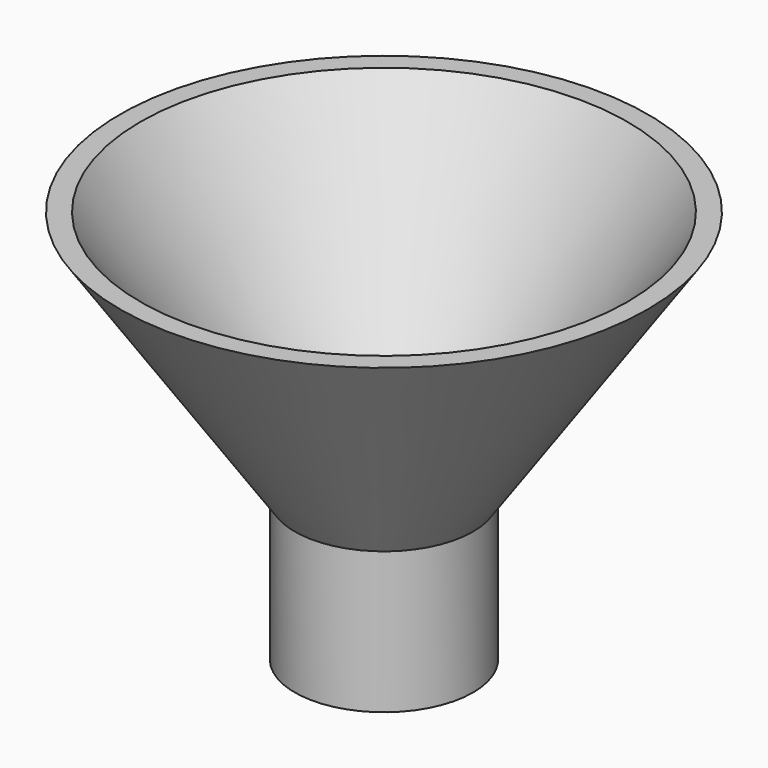
from build123d import *

# Parameters (mm, degrees)
F2_R     = 10.531
F3_DEPTH = 25.4


with BuildPart() as f1:
    # F0 (on Front) → F1 (revolve)
    with BuildSketch(Plane.XZ):
        Polygon((9.409218, 0), (25.4, 0), (25.4, 25.4), (56.747627, 70.69245), (53.106215, 70.69245), (23.63105, 28.105416), (9.409218, 28.105416), align=None)
    revolve(axis=Axis((9.409218, 0, 14.052708), (0, 0, -1)))

    # F2 (on face) → F3 (cut)
    with BuildSketch(Plane.XY.offset(28.105416)):
        with Locations((9.409218, 0)):
            Circle(F2_R)
    extrude(amount=-F3_DEPTH, mode=Mode.SUBTRACT)


solid = f1.part
